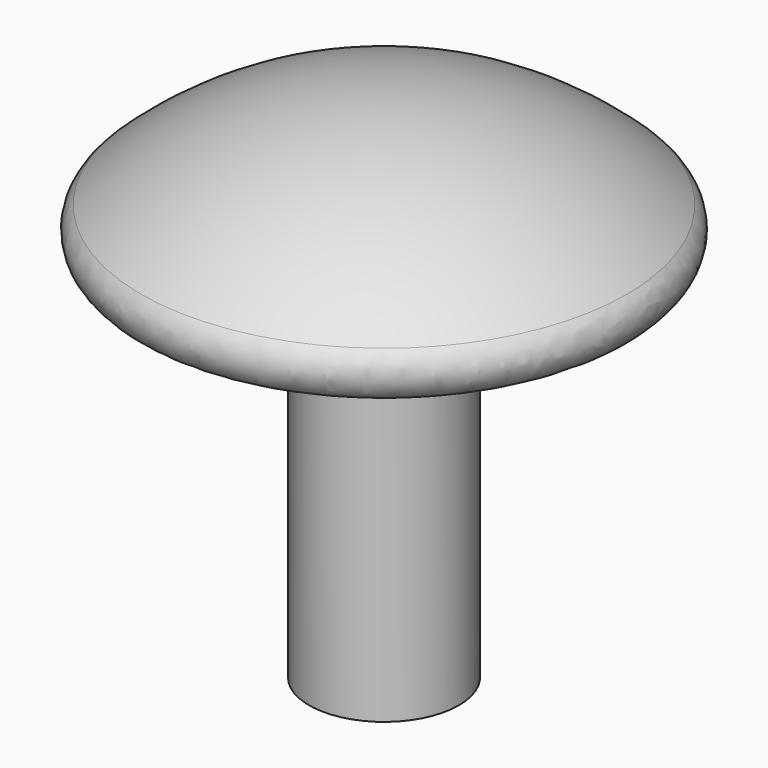
from build123d import *

# Parameters (mm, degrees)
F0_W = 1.3
F0_H = 6.35
F2_R = 0.5


with BuildPart() as f1:
    # F0 (on Front) → F1 (revolve)
    with BuildSketch(Plane.XZ):
        with BuildLine():
            Line((-0.0505680856, 1.5525856885), (-0.0505680856, -0.9474143115))
            Line((-0.0505680856, -0.9474143115), (1.2494319144, -0.9474143115))
            Line((1.2494319144, -0.9474143115), (4.9494319144, -0.9474143115))
            ThreePointArc((4.9494319144, -0.9474143115), (2.7445168863, 0.8927556323), (-0.0505680856, 1.5525856885))
        make_face()
        with Locations((0.5994319144, -4.1224143115)):
            Rectangle(F0_W, F0_H)
    revolve(axis=Axis((-0.0505680856, 0, -4.1224143115), (0, 0, -1)))

    # F2
    f2_edges = [f1.edges().sort_by_distance(p)[0] for p in [
        (-5.050568, 0, -0.947414),
    ]]
    fillet(f2_edges, radius=F2_R)


solid = f1.part
